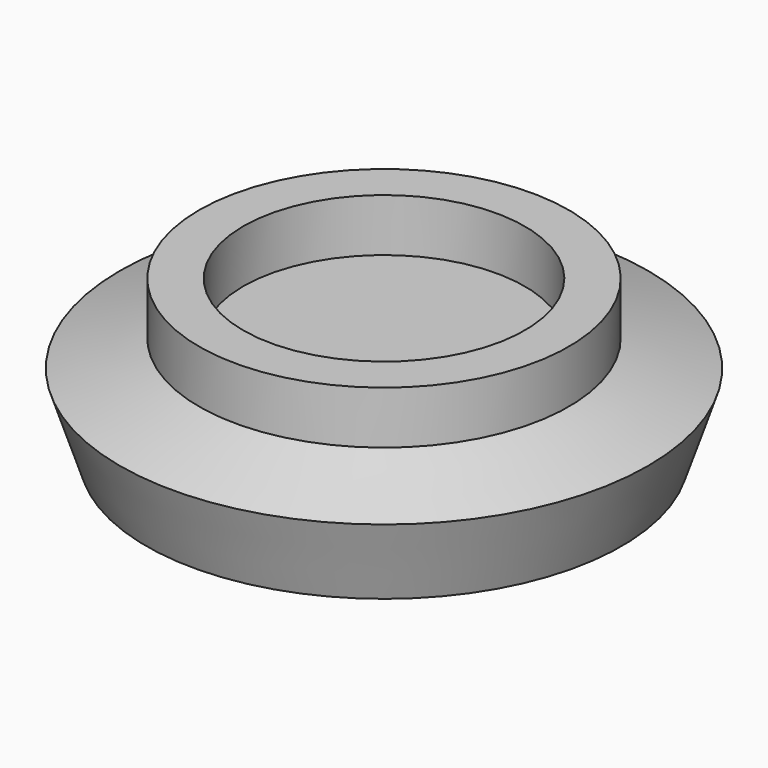
from build123d import *


with BuildPart() as part:
    # Sketch → Revolution (revolve)
    with BuildSketch(Plane.XZ):
        Polygon((-7.5, -0.25), (-5.25, 0.5), (-5.25, 2), (-4, 2), (-4, 0.5), (0, 0.5), (0, -0.5), (-4, -0.5), (-4, -1), (-5.75, -1), (-5.75, -2.5), (-6.75, -2.5), align=None)
    revolve(axis=Axis((0, 0, 0), (0, 0, 1)))


solid = part.part
